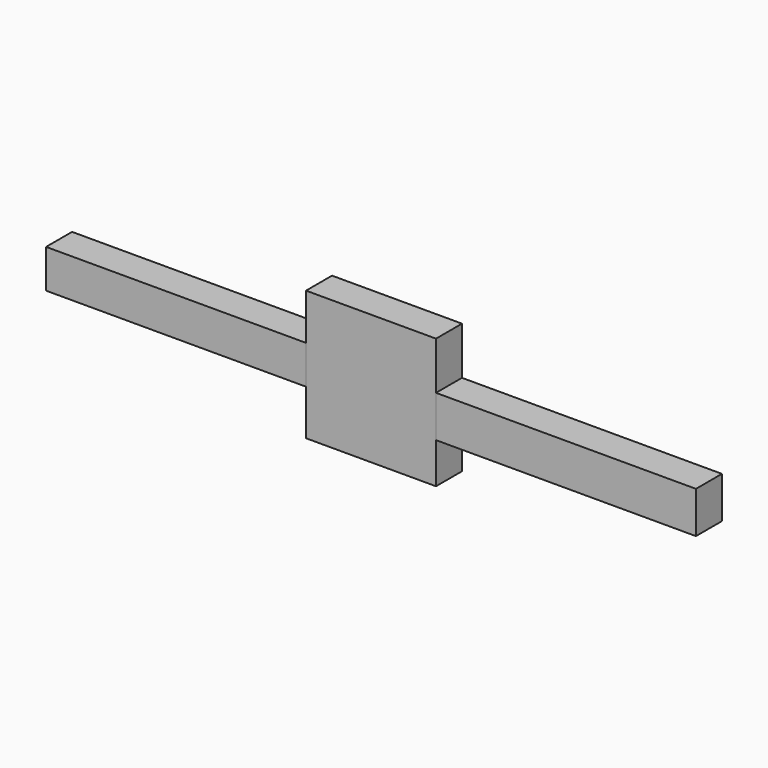
from build123d import *

# Parameters (mm, degrees)
F0_W     = 50.8
F0_H     = 50.8
F1_DEPTH = 12.7
F2_W     = 12.7
F2_H     = 15.078536
F3_DEPTH = 101.6
F4_W     = 12.7
F4_H     = 16.273961
F5_DEPTH = 101.6


with BuildPart() as f1:
    # F0 (on Front) → F1 (new body)
    with BuildSketch(Plane.XZ):
        Rectangle(F0_W, F0_H)
    extrude(amount=F1_DEPTH)


with BuildPart() as f3:
    # F2 (on face) → F3 (new body)
    with BuildSketch(Plane(origin=(-25.4, 0, 0), x_dir=(0, -1, 0), z_dir=(-1, 0, 0))):
        with Locations((6.35, -0.120708)):
            Rectangle(F2_W, F2_H)
    extrude(amount=F3_DEPTH)


with BuildPart() as f5:
    # F4 (on face) → F5 (new body)
    with BuildSketch(Plane.YZ.offset(25.4)):
        with Locations((-6.35, -1.381001)):
            Rectangle(F4_W, F4_H)
    extrude(amount=F5_DEPTH)


solid = Compound([f1.part, f3.part, f5.part])
